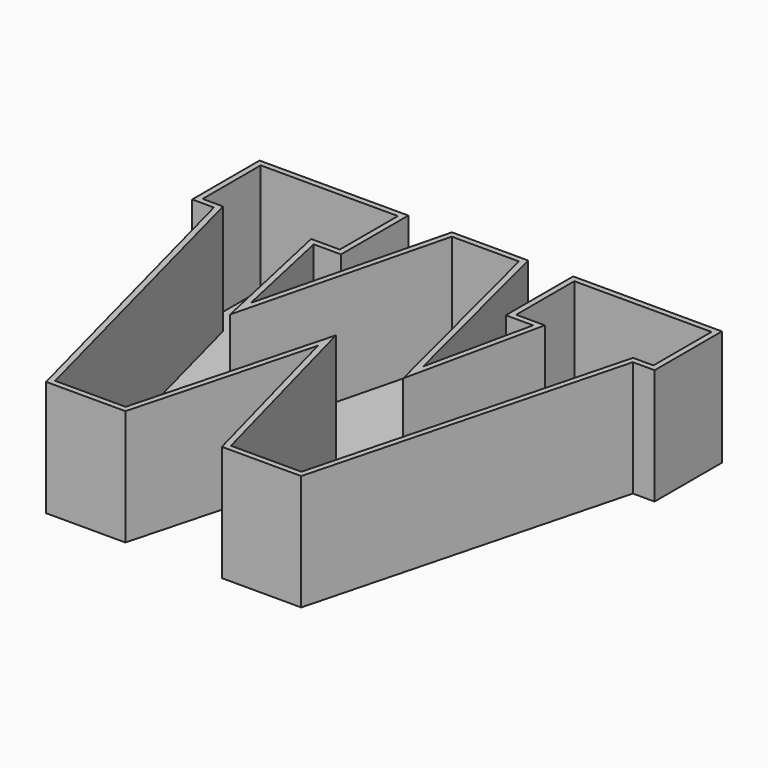
from build123d import *

# Parameters (mm, degrees)
F1_DEPTH = 25.4
F2_T     = -1.27


with BuildPart() as f1:
    # F0 (on Top) → F1 (new body)
    with BuildSketch(Plane.XY):
        Polygon((-10.5956131592, -41.9546216726), (0, -2.3362417705), (0, 44.8878593743), (-3.7480175961, 44.8878593743), (-8.3636632189, 44.8878593743), (-18.913788721, 2.8778421693), (-24.0879841149, 26.6048423946), (-18.0968102068, 26.6048423946), (-18.0968102068, 45.0884029269), (-50.7759526372, 45.0884029269), (-50.7759526372, 26.6048423946), (-45.9992699325, 26.6048423946), (-28.0164591968, -41.9546216726), align=None)
        Polygon((0, 44.8878593743), (0, -2.3362417705), (10.5956131592, -41.9546216726), (28.0164591968, -41.9546216726), (45.9992699325, 26.6048423946), (50.7759526372, 26.6048423946), (50.7759526372, 45.0884029269), (18.0968102068, 45.0884029269), (18.0968102068, 26.6048423946), (24.0879841149, 26.6048423946), (18.913788721, 2.8778421693), (8.3636632189, 44.8878593743), (3.7480175961, 44.8878593743), align=None)
    extrude(amount=F1_DEPTH)

    # F2
    f2_openings = [f1.faces().sort_by_distance(p)[0] for p in [
        (0, 6.554873, 25.4),
    ]]
    offset(amount=F2_T, openings=f2_openings, kind=Kind.INTERSECTION)


solid = f1.part
